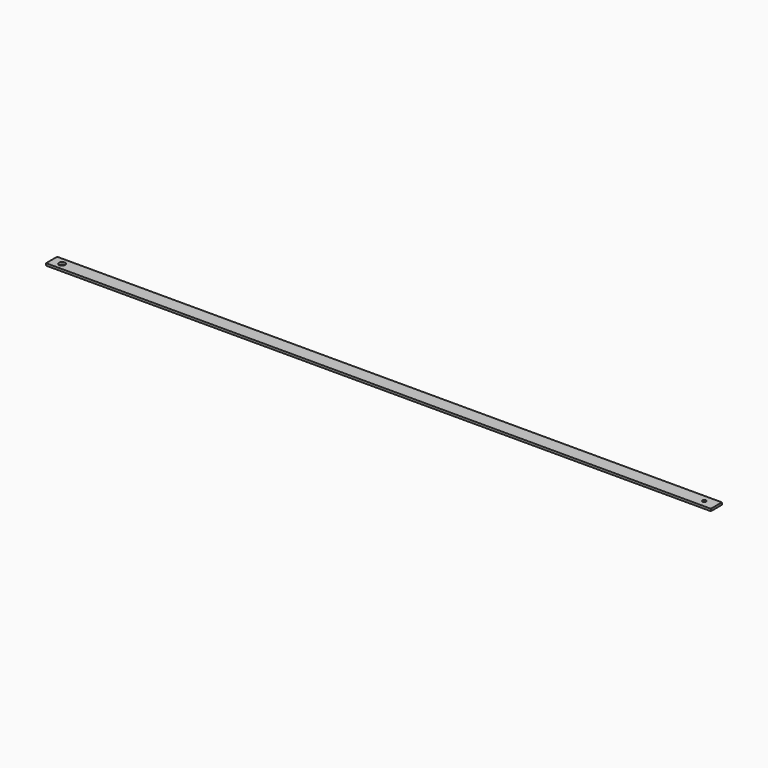
from build123d import *

# Parameters (mm, degrees)
F0_W     = 152.4
F0_H     = 3.175
F1_DEPTH = 0.508
F2_R     = 0.447417
F3_DEPTH = 25.4
F4_R     = 0.711893
F5_DEPTH = 25.4


with BuildPart() as f1:
    # F0 (on Top) → F1 (new body)
    with BuildSketch(Plane.XY):
        Rectangle(F0_W, F0_H)
    extrude(amount=F1_DEPTH)

    # F2 (on face) → F3 (cut)
    with BuildSketch(Plane.XY.offset(0.508)):
        with Locations((73.41224, 0)):
            Circle(F2_R)
    extrude(amount=-F3_DEPTH, mode=Mode.SUBTRACT)

    # F4 (on face) → F5 (cut)
    with BuildSketch(Plane.XY.offset(0.508)):
        with Locations((-73.786564, 0)):
            Circle(F4_R)
    extrude(amount=-F5_DEPTH, mode=Mode.SUBTRACT)


solid = f1.part
